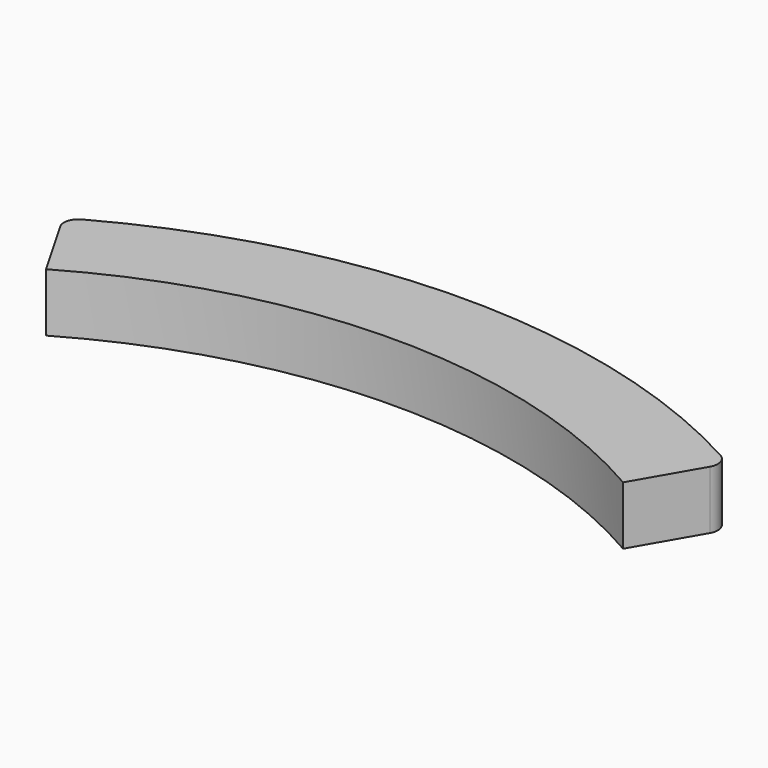
from build123d import *

# Parameters (mm, degrees)
F1_DEPTH = 2
F2_R     = 0.5


with BuildPart() as f1:
    # F0 (on Top) → F1 (new body)
    with BuildSketch(Plane.XY):
        with BuildLine():
            ThreePointArc((-9.875, 17.104002), (0, 19.75), (9.875, 17.104002))
            Line((9.875, 17.104002), (11.375, 19.702078))
            ThreePointArc((11.375, 19.702078), (0, 22.75), (-11.375, 19.702078))
            Line((-11.375, 19.702078), (-9.875, 17.104002))
        make_face()
    extrude(amount=F1_DEPTH)

    # F2
    f2_edges = [f1.edges().sort_by_distance(p)[0] for p in [
        (-11.375, 19.702078, 1),
        (11.375, 19.702078, 1),
    ]]
    fillet(f2_edges, radius=F2_R)


solid = f1.part
